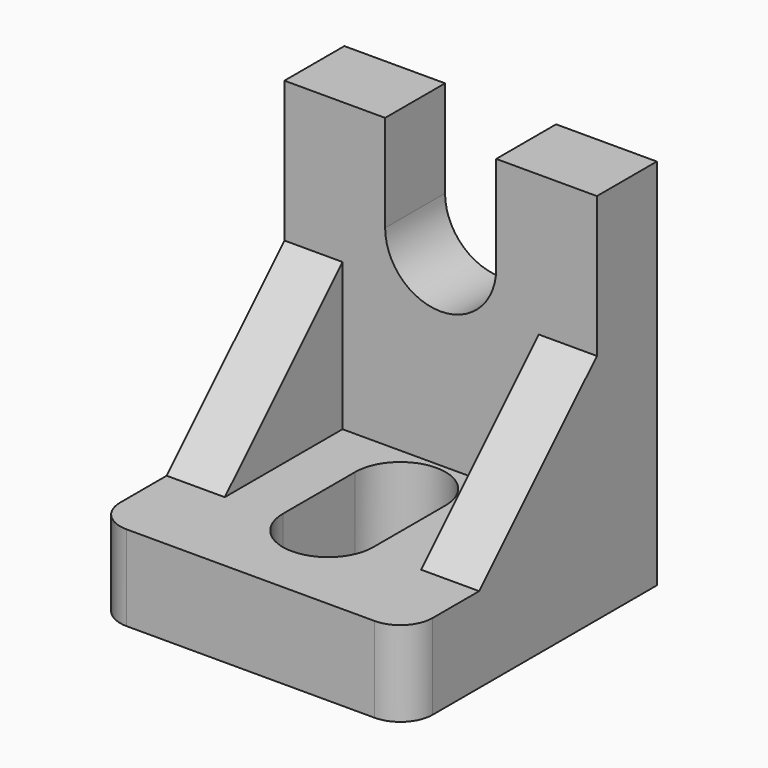
from build123d import *

# Parameters (mm, degrees)
PAD001_DEPTH = 11.6
PAD_DEPTH    = 13.2
PAD002_DEPTH = 9
PAD003_DEPTH = 9


with BuildPart() as frontal:
    # Sketch001 → Pad001 (new body)
    with BuildSketch(Plane.XZ.offset(-24.2)):
        with BuildLine():
            Line((-24.2, 57.8), (-8.6, 57.8))
            Line((-8.6, 42.8), (-8.6, 57.8))
            ThreePointArc((-8.6, 42.8), (0, 34.2), (8.6, 42.8))
            Line((8.6, 57.8), (8.6, 42.8))
            Line((8.6, 57.8), (24.2, 57.8))
            Line((24.2, 57.8), (24.2, 13.2))
            Line((24.2, 13.2), (-24.2, 13.2))
            Line((-24.2, 13.2), (-24.2, 57.8))
        make_face()
    extrude(amount=PAD001_DEPTH)


with BuildPart() as obj1:
    # Sketch → Pad (new body)
    with BuildSketch(Plane.XY):
        with BuildLine():
            Line((-24.2, 24.2), (24.2, 24.2))
            Line((24.2, 24.2), (24.2, -19.2))
            ThreePointArc((19.2, -24.2), (22.735534, -22.735534), (24.2, -19.2))
            Line((19.2, -24.2), (-19.2, -24.2))
            ThreePointArc((-24.2, -19.2), (-22.735534, -22.735534), (-19.2, -24.2))
            Line((-24.2, -19.2), (-24.2, 24.2))
        make_face()
        with BuildLine():
            Line((7, 4.8), (7, -9.2))
            ThreePointArc((-7, -9.2), (0, -16.2), (7, -9.2))
            Line((-7, -9.2), (-7, 4.8))
            ThreePointArc((7, 4.8), (0, 11.8), (-7, 4.8))
        make_face(mode=Mode.SUBTRACT)
    extrude(amount=PAD_DEPTH)

    # Fusion: union Frontal
    add(frontal.part)


with BuildPart() as escuadra_izquierda:
    # Sketch002 → Pad002 (new body)
    with BuildSketch(Plane.YZ.offset(-24.2)):
        Polygon((-10.2, 13.2), (12.6, 13.2), (12.6, 36), align=None)
    extrude(amount=PAD002_DEPTH)


with BuildPart() as obj2:
    # Sketch003 → Pad003 (new body)
    with BuildSketch(Plane.YZ.offset(24.2)):
        Polygon((-10.2, 13.2), (12.6, 13.2), (12.6, 36), align=None)
    extrude(amount=-PAD003_DEPTH)

    # Fusion001: union Escuadra-izquierda
    add(escuadra_izquierda.part)

    # Fusion002: union obj1
    add(obj1.part)


solid = obj2.part
